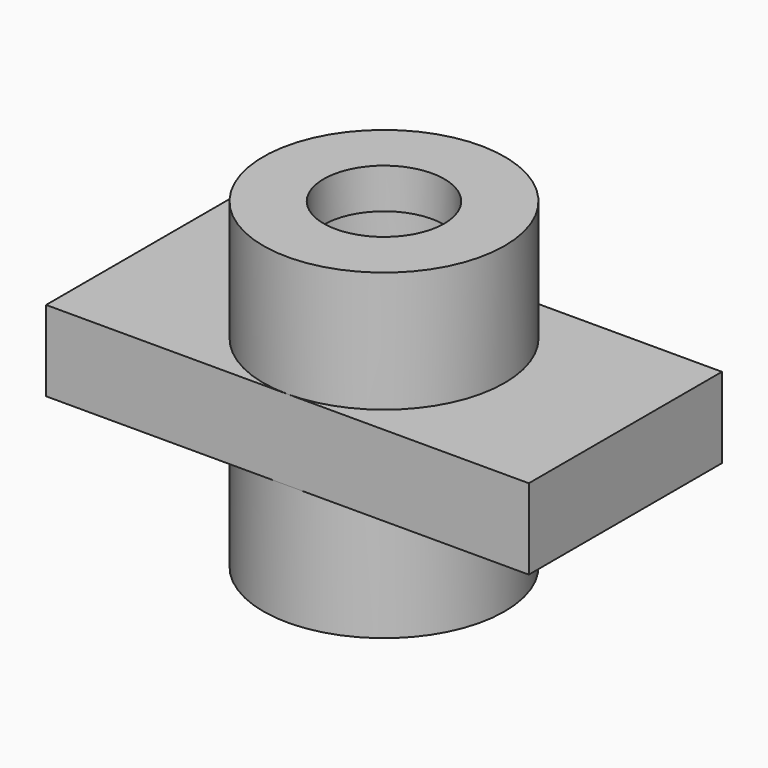
from build123d import *

# Parameters (mm, degrees)
F0_W          = 76.2
F0_H          = 38.1
F1_DEPTH      = 12.7
F2_R          = 19.05
F2_R_2        = 9.525
F3_DEPTH      = 19.05
F3_DEPTH_BACK = 31.75
F4_W          = 12.7
F4_H          = 6.35
F3_FACE_R     = 9.525
F6_DEPTH      = 31.751


with BuildPart() as f1:
    # F0 (on Top) → F1 (new body)
    with BuildSketch(Plane.XY):
        Rectangle(F0_W, F0_H)
    extrude(amount=F1_DEPTH)

    # F2 (on face) → F3 (join, two sides)
    with BuildSketch(Plane(origin=(0, 0, 0), x_dir=(1, 0, 0), z_dir=(0, 0, -1))) as f3_sk:
        Circle(F2_R)
        Circle(F2_R_2, mode=Mode.SUBTRACT)
    extrude(amount=F3_DEPTH)
    extrude(f3_sk.sketch, amount=-F3_DEPTH_BACK)

    # F4 (on Right) → F5 (revolve, cut)
    with BuildSketch(Plane.YZ):
        with Locations((-6.35, 22.225)):
            Rectangle(F4_W, F4_H)
    revolve(axis=Axis((0, 0, 16.209038), (0, 0, 1)), mode=Mode.SUBTRACT)

    # F3_face (on face) → F6 (cut, through all)
    with BuildSketch(Plane(origin=(0, 0, 0), x_dir=(1, 0, 0), z_dir=(0, 0, -1))):
        Circle(F3_FACE_R)
    extrude(amount=-F6_DEPTH, mode=Mode.SUBTRACT)


solid = f1.part
